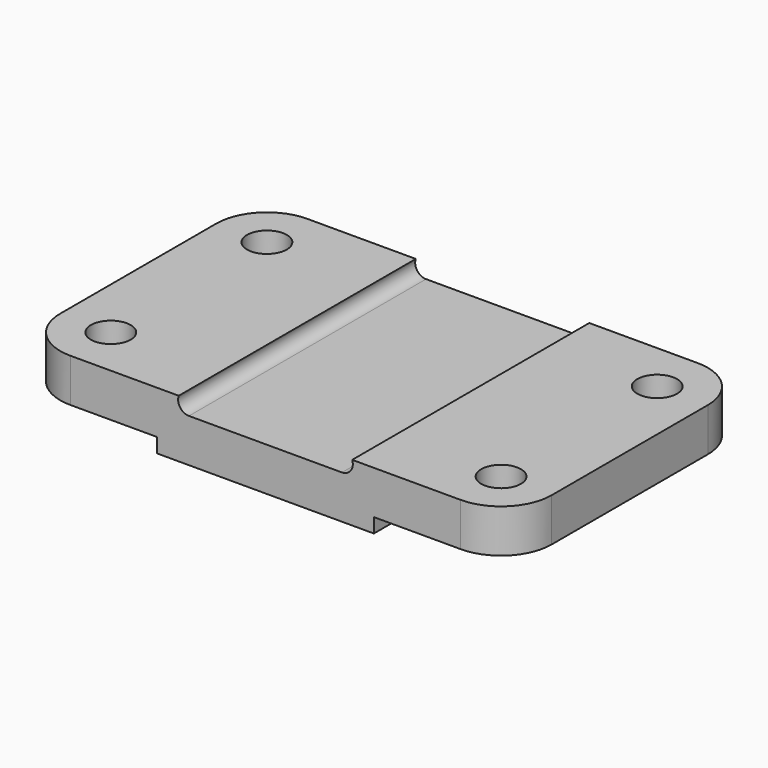
from build123d import *

# Parameters (mm, degrees)
F1_DEPTH = 82
F2_R     = 5.5
F3_DEPTH = 16


with BuildPart() as f1:
    # F0 (on Front) → F1 (new body)
    with BuildSketch(Plane.XZ):
        with BuildLine():
            Line((-30, 4), (-30, 0))
            Line((-30, 0), (30, 0))
            Line((30, 0), (30, 4))
            Line((30, 4), (68, 4))
            Line((68, 4), (68, 16))
            Line((68, 16), (24, 16))
            ThreePointArc((24, 16), (23.621063, 13.267949), (21.171573, 12))
            Line((21.171573, 12), (-21.171573, 12))
            ThreePointArc((-21.171573, 12), (-23.621063, 13.267949), (-24, 16))
            Line((-24, 16), (-68, 16))
            Line((-68, 16), (-68, 4))
            Line((-68, 4), (-30, 4))
        make_face()
    extrude(amount=F1_DEPTH)

    # F2 (on Top) → F3 (cut)
    with BuildSketch(Plane.XY):
        with BuildLine():
            Line((68, -82), (68, -68))
            ThreePointArc((68, -68), (63.899495, -77.899495), (54, -82))
            Line((54, -82), (68, -82))
        make_face()
        with BuildLine():
            Line((68, 0), (54, 0))
            ThreePointArc((54, 0), (63.899495, -4.100505), (68, -14))
            Line((68, -14), (68, 0))
        make_face()
        with BuildLine():
            ThreePointArc((-68, -14), (-63.899495, -4.100505), (-54, 0))
            Line((-54, 0), (-68, 0))
            Line((-68, 0), (-68, -14))
        make_face()
        with Locations((-54, -14)):
            Circle(F2_R)
        with BuildLine():
            ThreePointArc((-54, -82), (-63.899495, -77.899495), (-68, -68))
            Line((-68, -68), (-68, -82))
            Line((-68, -82), (-54, -82))
        make_face()
        with Locations((54, -14)):
            Circle(F2_R)
        with Locations((54, -68)):
            Circle(F2_R)
        with Locations((-54, -68)):
            Circle(F2_R)
    extrude(amount=F3_DEPTH, mode=Mode.SUBTRACT)


solid = f1.part
